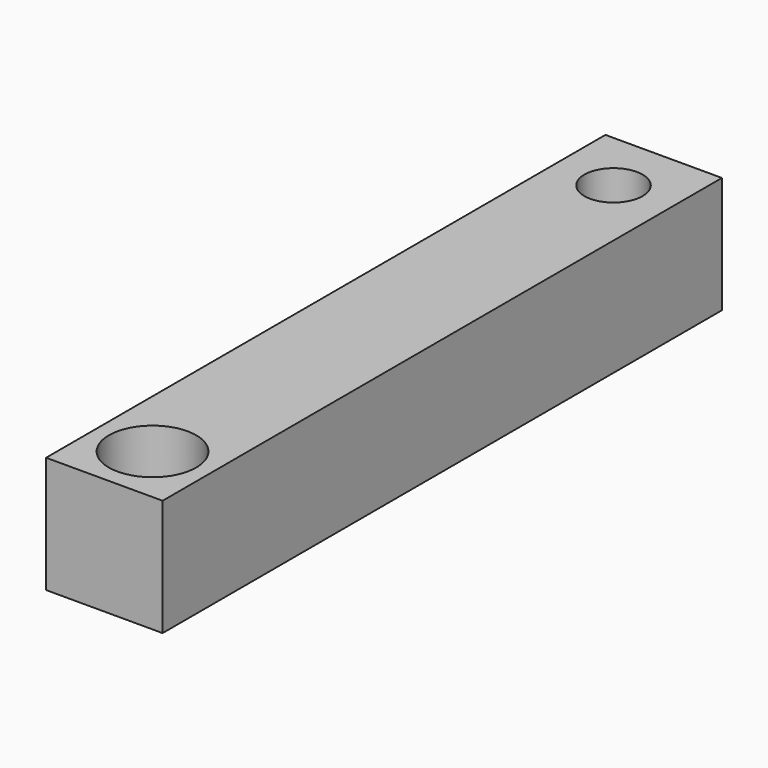
from build123d import *

# Parameters (mm, degrees)
F0_W     = 20
F0_H     = 120
F1_DEPTH = 20
F4_D     = 15
F6_D     = 10


with BuildPart() as f1:
    # F0 (on Top) → F1 (new body)
    with BuildSketch(Plane.XY):
        Rectangle(F0_W, F0_H)
    extrude(amount=F1_DEPTH)

    # F4 (through all)
    with Locations(Plane.XY.offset(20)):
        with Locations((0, -49.655378)):
            Hole(F4_D / 2)

    # F6 (through all)
    with Locations(Plane.XY.offset(20)):
        with Locations((0, 49.241364)):
            Hole(F6_D / 2)


solid = f1.part
